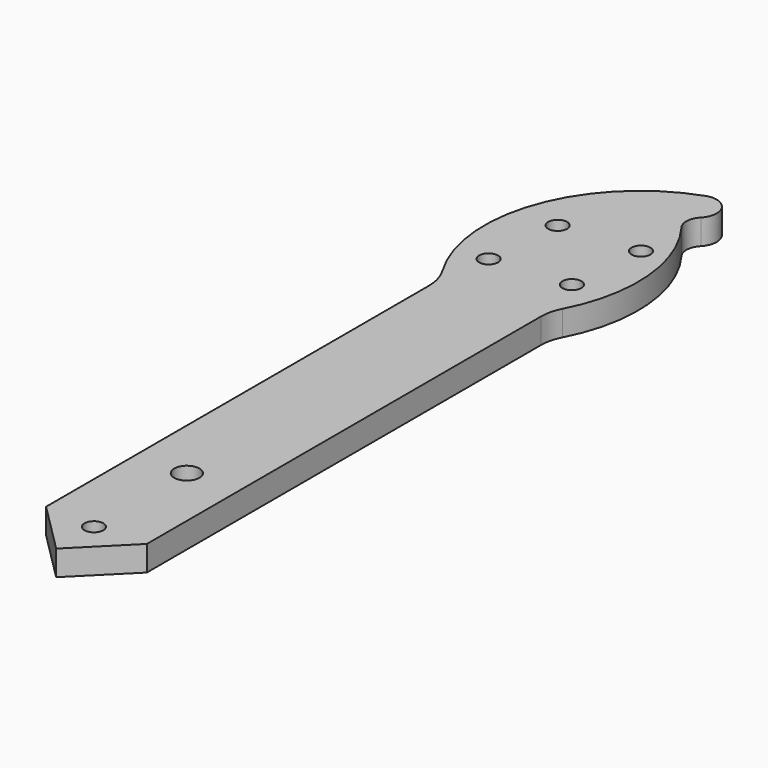
from build123d import *

# Parameters (mm, degrees)
SKETCH002_R      = 2
SKETCH002_R_2    = 1.5
EXTRUDE001_DEPTH = 4


with BuildPart() as part:
    # Sketch002 → Extrude001 (new body)
    with BuildSketch(Plane.XY):
        with BuildLine():
            Line((-8, -92.933243), (-8, -17.000938))
            ThreePointArc((-8, -17.000938), (-8.297069, -14.84111), (-9.166214, -12.841687))
            ThreePointArc((3.732527, 23.29894), (-11.329683, 8.302585), (-9.166214, -12.841687))
            ThreePointArc((6.882805, 18.381245), (7.254673, 22.087346), (3.732527, 23.29894))
            ThreePointArc((6.882805, 18.381245), (6.118525, 16.652055), (6.660919, 14.84097))
            ThreePointArc((8.798632, -11.457288), (11.535462, 2.001195), (6.660919, 14.84097))
            ThreePointArc((8.798632, -11.457288), (8.20259, -13.032404), (8, -14.704293))
            Line((8, -14.704293), (8, -45.025379))
            Line((8, -45.025379), (8, -92.933243))
            Line((0, -100.933243), (8, -92.933243))
            Line((-8, -92.933243), (0, -100.933243))
        make_face()
        with Locations((0, -75)):
            Circle(SKETCH002_R, mode=Mode.SUBTRACT)
        with Locations((0, -93.433243)):
            Circle(SKETCH002_R_2, mode=Mode.SUBTRACT)
        with Locations((6.717514, 6.717514)):
            Circle(SKETCH002_R_2, mode=Mode.SUBTRACT)
        with Locations((5.656854, -5.656854)):
            Circle(SKETCH002_R_2, mode=Mode.SUBTRACT)
        with Locations((-6.717514, -6.717514)):
            Circle(SKETCH002_R_2, mode=Mode.SUBTRACT)
        with Locations((-5.656854, 5.656854)):
            Circle(SKETCH002_R_2, mode=Mode.SUBTRACT)
    extrude(amount=-EXTRUDE001_DEPTH)


solid = part.part
